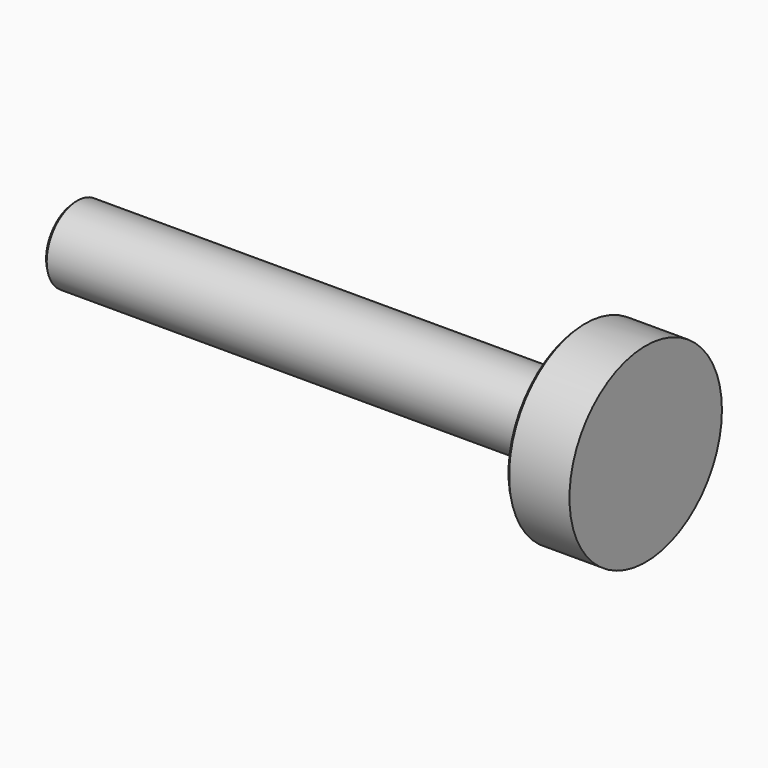
from build123d import *

# Parameters (mm, degrees)
F0_R     = 15
F1_DEPTH = 10
F2_R     = 6
F3_DEPTH = 80
F4_SIZE  = 0.5


with BuildPart() as f1:
    # F0 (on Right) → F1 (new body)
    with BuildSketch(Plane.YZ):
        Circle(F0_R)
    extrude(amount=-F1_DEPTH)

    # F2 (on face) → F3 (join)
    with BuildSketch(Plane(origin=(-10, 0, 0), x_dir=(0, -1, 0), z_dir=(-1, 0, 0))):
        Circle(F2_R)
    extrude(amount=F3_DEPTH)

    # F4
    f4_edges = [f1.edges().sort_by_distance(p)[0] for p in [
        (-90, 6, 0),
        (-10, -15, 0),
    ]]
    chamfer(f4_edges, length=F4_SIZE)


solid = f1.part
